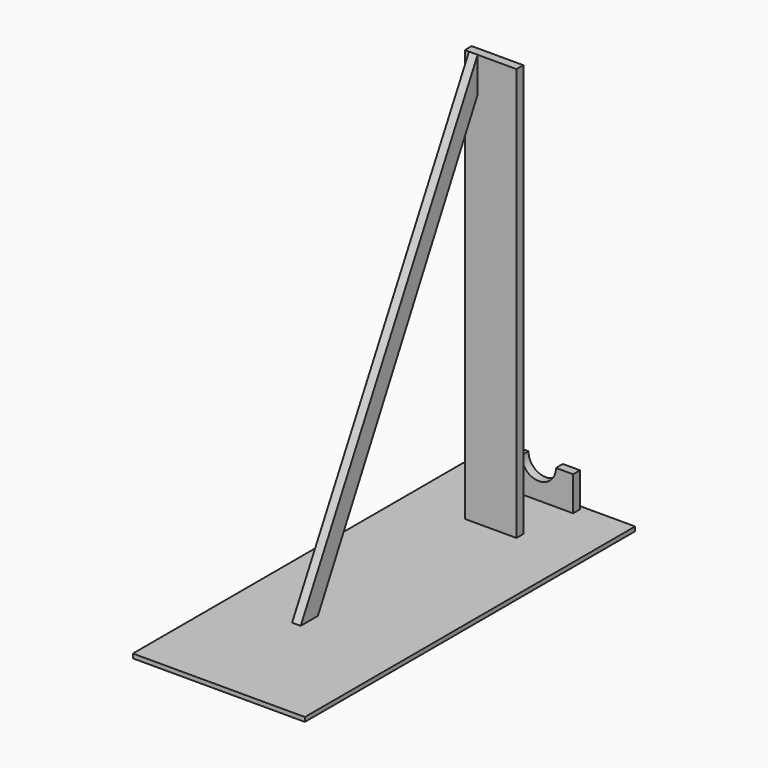
from build123d import *

# Parameters (mm, degrees)
F0_W      = 254
F0_H      = 609.6
F1_DEPTH  = 6.35
F2_W      = 152.4
F2_H      = 50.8
F2_H_2    = 45.6810940742
F3_DEPTH  = 5.08
F5_DEPTH  = 50.8
F6_W      = 76.2
F6_H      = 12.7
F7_DEPTH  = 609.6
F9_DEPTH  = 6.35
F11_DEPTH = 25.4


with BuildPart() as f1:
    # F0 (on Top) → F1 (new body)
    with BuildSketch(Plane.XY):
        with Locations((25.4, 0)):
            Rectangle(F0_W, F0_H)
    extrude(amount=F1_DEPTH)

    # F2 (on face) → F3 (join)
    with BuildSketch(Plane(origin=(0, 0, 0), x_dir=(1, 0, 0), z_dir=(0, 0, -1))):
        with Locations((25.4, 203.2)):
            Rectangle(F2_W, F2_H)
        with Locations((25.4, -203.2)):
            Rectangle(F2_W, F2_H_2)
    extrude(amount=F3_DEPTH)

    # F4 (on face) → F5 (join)
    with BuildSketch(Plane.XY.offset(6.35)):
        Polygon((76.2, 285.75), (76.2, 298.45), (25.4, 298.45), (-25.4, 298.45), (-25.4, 285.75), align=None)
    extrude(amount=F5_DEPTH)

    # F6 (on face) → F7 (join)
    with BuildSketch(Plane.XY.offset(6.35)):
        with Locations((25.4, 203.2)):
            Rectangle(F6_W, F6_H)
    extrude(amount=F7_DEPTH)

    # F8 (on Right) → F9 (join, symmetric)
    with BuildSketch(Plane.YZ):
        Polygon((-133.4145218134, 0), (-101.6, 0), (196.6719031334, 564.3243789673), (196.6719031334, 616.1219477654), align=None)
    extrude(amount=F9_DEPTH, both=True)

    # F10 (on face) → F11 (cut)
    with BuildSketch(Plane(origin=(0, 298.45, 0), x_dir=(-1, 0, 0), z_dir=(0, 1, 0))):
        with BuildLine():
            ThreePointArc((-50.8, 57.15), (-25.4, 31.75), (0, 57.15))
            Line((0, 57.15), (-50.8, 57.15))
        make_face()
    extrude(amount=-F11_DEPTH, mode=Mode.SUBTRACT)


solid = f1.part
